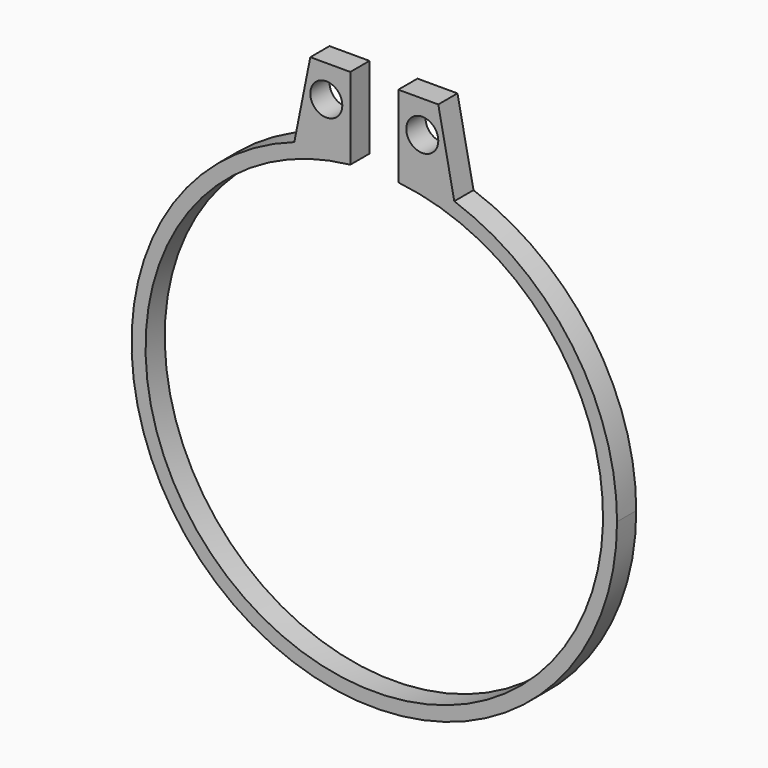
from build123d import *

# Parameters (mm, degrees)
F0_R     = 14.3
F0_R_2   = 1
F1_DEPTH = 1.5
F2_W     = 3
F2_H     = 30
F3_DEPTH = 1.501


with BuildPart() as f1:
    # F0 (on Front) → F1 (new body)
    with BuildSketch(Plane.XZ):
        with BuildLine():
            ThreePointArc((-5, 14.3276175619), (-8.7865131025, -12.3724618609), (15.175, 0))
            ThreePointArc((15.175, 0), (12.3724618609, 8.7865131025), (5, 14.3276175619))
            Line((5, 14.3276175619), (-5, 14.3276175619))
        make_face()
        Circle(F0_R, mode=Mode.SUBTRACT)
        with BuildLine():
            Line((-5, 14.3276175619), (5, 14.3276175619))
            ThreePointArc((5, 14.3276175619), (0, 15.175), (-5, 14.3276175619))
        make_face()
        with BuildLine():
            ThreePointArc((-5, 14.3276175619), (0, 15.175), (5, 14.3276175619))
            Line((5, 14.3276175619), (4, 19.3276175619))
            Line((4, 19.3276175619), (0, 19.3276175619))
            Line((0, 19.3276175619), (-4, 19.3276175619))
            Line((-4, 19.3276175619), (-5, 14.3276175619))
        make_face()
        with Locations((-3, 17.3276175619)):
            Circle(F0_R_2, mode=Mode.SUBTRACT)
        with Locations((3, 17.3276175619)):
            Circle(F0_R_2, mode=Mode.SUBTRACT)
    extrude(amount=F1_DEPTH)

    # F2 (on face) → F3 (cut, through all)
    with BuildSketch(Plane.XZ.offset(1.5)):
        with Locations((0, 15)):
            Rectangle(F2_W, F2_H)
    extrude(amount=-F3_DEPTH, mode=Mode.SUBTRACT)


solid = f1.part
